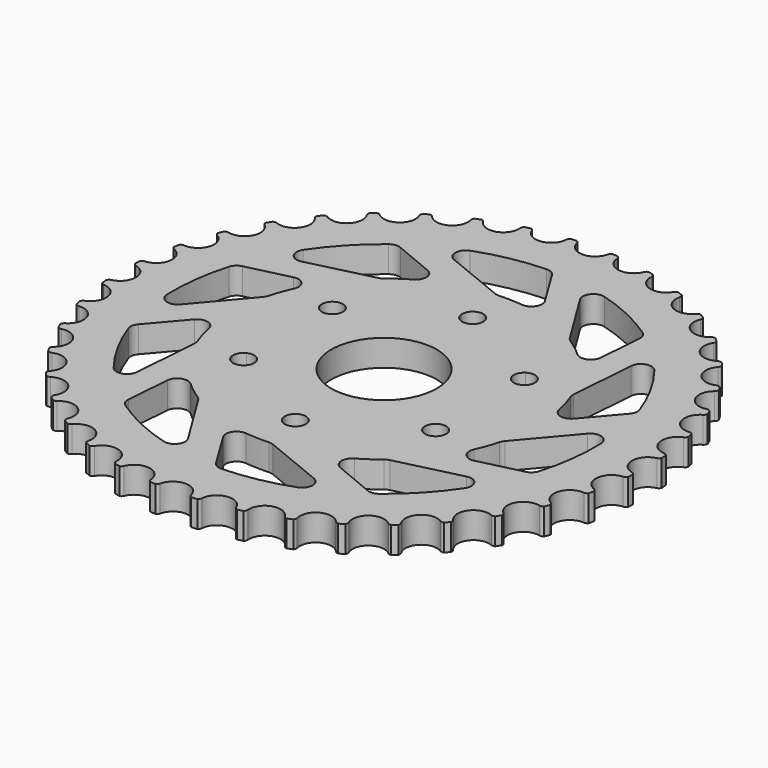
from build123d import *

# Parameters (mm, degrees)
F0_R      = 125
F1_DEPTH  = 12.5
F2_R      = 25
F3_DEPTH  = 12.501
F5_DEPTH  = 12.501
F6_R      = 7.5
F7_DEPTH  = 12.501
F9_DEPTH  = 12.501
F11_DEPTH = 12.501
F12_R     = 5


with BuildPart() as f1:
    # F0 (on Top) → F1 (new body)
    with BuildSketch(Plane.XY):
        Circle(F0_R)
    extrude(amount=F1_DEPTH)

    # F2 (on face) → F3 (cut, through all)
    with BuildSketch(Plane.XY.offset(12.5)):
        Circle(F2_R)
    extrude(amount=-F3_DEPTH, mode=Mode.SUBTRACT)

    # F4 (on face) → F5 (cut, through all)
    with BuildSketch(Plane.XY.offset(12.5)):
        with BuildLine():
            ThreePointArc((-40.4663336987, 26.25), (-41.0778942127, 28.6461633662), (-42.7629732498, 30.4561671725))
            ThreePointArc((-42.7629732498, 30.4561671725), (-45.4663336987, 26.25), (-47.7573010982, 21.8057375894))
            ThreePointArc((-47.7573010982, 21.8057375894), (-42.863915304, 21.9806419102), (-40.4663336987, 26.25))
        make_face()
        with BuildLine():
            ThreePointArc((-47.7573010982, 21.8057375894), (-45.4663336987, 26.25), (-42.7629732498, 30.4561671725))
            ThreePointArc((-42.7629732498, 30.4561671725), (-49.7964607176, 28.75), (-47.7573010982, 21.8057375894))
        make_face()
        with BuildLine():
            ThreePointArc((4.9943278484, 52.2619047619), (4.998581761, 52.3809186038), (5, 52.5))
            ThreePointArc((5, 52.5), (-0.1190813962, 57.498581761), (-4.9943278484, 52.2619047619))
            ThreePointArc((-4.9943278484, 52.2619047619), (0, 52.5), (4.9943278484, 52.2619047619))
        make_face()
        with BuildLine():
            ThreePointArc((4.9943278484, 52.2619047619), (0, 52.5), (-4.9943278484, 52.2619047619))
            ThreePointArc((-4.9943278484, 52.2619047619), (0, 47.5), (4.9943278484, 52.2619047619))
        make_face()
        with BuildLine():
            ThreePointArc((-42.7629732498, -30.4561671725), (-41.0778942127, -28.6461633662), (-40.4663336987, -26.25))
            ThreePointArc((-40.4663336987, -26.25), (-42.863915304, -21.9806419102), (-47.7573010982, -21.8057375894))
            ThreePointArc((-47.7573010982, -21.8057375894), (-45.4663336987, -26.25), (-42.7629732498, -30.4561671725))
        make_face()
        with BuildLine():
            ThreePointArc((-42.7629732498, -30.4561671725), (-45.4663336987, -26.25), (-47.7573010982, -21.8057375894))
            ThreePointArc((-47.7573010982, -21.8057375894), (-49.7964607176, -28.75), (-42.7629732498, -30.4561671725))
        make_face()
        with BuildLine():
            ThreePointArc((-4.9943278484, -52.2619047619), (-0.1190813962, -57.498581761), (5, -52.5))
            ThreePointArc((5, -52.5), (4.998581761, -52.3809186038), (4.9943278484, -52.2619047619))
            ThreePointArc((4.9943278484, -52.2619047619), (0, -52.5), (-4.9943278484, -52.2619047619))
        make_face()
        with BuildLine():
            ThreePointArc((-4.9943278484, -52.2619047619), (0, -52.5), (4.9943278484, -52.2619047619))
            ThreePointArc((4.9943278484, -52.2619047619), (0, -47.5), (-4.9943278484, -52.2619047619))
        make_face()
        with BuildLine():
            ThreePointArc((42.7629732498, -30.4561671725), (47.8624970649, -30.638439486), (50.4663336987, -26.25))
            ThreePointArc((50.4663336987, -26.25), (49.7356917885, -23.6475816053), (47.7573010982, -21.8057375894))
            ThreePointArc((47.7573010982, -21.8057375894), (45.4663336987, -26.25), (42.7629732498, -30.4561671725))
        make_face()
        with BuildLine():
            ThreePointArc((42.7629732498, -30.4561671725), (45.4663336987, -26.25), (47.7573010982, -21.8057375894))
            ThreePointArc((47.7573010982, -21.8057375894), (41.1362066798, -23.75), (42.7629732498, -30.4561671725))
        make_face()
        with BuildLine():
            ThreePointArc((47.7573010982, 21.8057375894), (49.7356917885, 23.6475816053), (50.4663336987, 26.25))
            ThreePointArc((50.4663336987, 26.25), (47.8624970649, 30.638439486), (42.7629732498, 30.4561671725))
            ThreePointArc((42.7629732498, 30.4561671725), (45.4663336987, 26.25), (47.7573010982, 21.8057375894))
        make_face()
        with BuildLine():
            ThreePointArc((47.7573010982, 21.8057375894), (45.4663336987, 26.25), (42.7629732498, 30.4561671725))
            ThreePointArc((42.7629732498, 30.4561671725), (41.1362066798, 23.75), (47.7573010982, 21.8057375894))
        make_face()
    extrude(amount=-F5_DEPTH, mode=Mode.SUBTRACT)

    # F6 (on face) → F7 (cut, through all)
    with BuildSketch(Plane.XY.offset(12.5)):
        with Locations((0, 125)):
            Circle(F6_R)
        with Locations((-19.55430813, 123.4610425744)):
            Circle(F6_R)
        with Locations((-38.6271242969, 118.8820645369)):
            Circle(F6_R)
        with Locations((-56.7488124674, 111.3758155235)):
            Circle(F6_R)
        with Locations((-73.4731565366, 101.1271242969)):
            Circle(F6_R)
        with Locations((-88.3883476483, 88.3883476483)):
            Circle(F6_R)
        with Locations((-101.1271242969, 73.4731565366)):
            Circle(F6_R)
        with Locations((-111.3758155235, 56.7488124674)):
            Circle(F6_R)
        with Locations((-118.8820645369, 38.6271242969)):
            Circle(F6_R)
        with Locations((-123.4610425744, 19.55430813)):
            Circle(F6_R)
        with Locations((-125, 0)):
            Circle(F6_R)
        with Locations((-123.4610425744, -19.55430813)):
            Circle(F6_R)
        with Locations((-118.8820645369, -38.6271242969)):
            Circle(F6_R)
        with Locations((-111.3758155235, -56.7488124674)):
            Circle(F6_R)
        with Locations((-101.1271242969, -73.4731565366)):
            Circle(F6_R)
        with Locations((-88.3883476483, -88.3883476483)):
            Circle(F6_R)
        with Locations((-73.4731565366, -101.1271242969)):
            Circle(F6_R)
        with Locations((-56.7488124674, -111.3758155235)):
            Circle(F6_R)
        with Locations((-38.6271242969, -118.8820645369)):
            Circle(F6_R)
        with Locations((-19.55430813, -123.4610425744)):
            Circle(F6_R)
        with Locations((0, -125)):
            Circle(F6_R)
        with Locations((19.55430813, -123.4610425744)):
            Circle(F6_R)
        with Locations((38.6271242969, -118.8820645369)):
            Circle(F6_R)
        with Locations((56.7488124674, -111.3758155235)):
            Circle(F6_R)
        with Locations((73.4731565366, -101.1271242969)):
            Circle(F6_R)
        with Locations((88.3883476483, -88.3883476483)):
            Circle(F6_R)
        with Locations((101.1271242969, -73.4731565366)):
            Circle(F6_R)
        with Locations((111.3758155235, -56.7488124674)):
            Circle(F6_R)
        with Locations((118.8820645369, -38.6271242969)):
            Circle(F6_R)
        with Locations((123.4610425744, -19.55430813)):
            Circle(F6_R)
        with Locations((125, 0)):
            Circle(F6_R)
        with Locations((123.4610425744, 19.55430813)):
            Circle(F6_R)
        with Locations((118.8820645369, 38.6271242969)):
            Circle(F6_R)
        with Locations((111.3758155235, 56.7488124674)):
            Circle(F6_R)
        with Locations((101.1271242969, 73.4731565366)):
            Circle(F6_R)
        with Locations((88.3883476483, 88.3883476483)):
            Circle(F6_R)
        with Locations((73.4731565366, 101.1271242969)):
            Circle(F6_R)
        with Locations((56.7488124674, 111.3758155235)):
            Circle(F6_R)
        with Locations((38.6271242969, 118.8820645369)):
            Circle(F6_R)
        with Locations((19.55430813, 123.4610425744)):
            Circle(F6_R)
    extrude(amount=-F7_DEPTH, mode=Mode.SUBTRACT)

    # F8 (on face) → F9 (cut, through all)
    with BuildSketch(Plane.XY.offset(12.5)):
        with BuildLine():
            ThreePointArc((7.3014553579, 123.2857218264), (7.7122674879, 124.1332767741), (8.4654994849, 124.6987478645))
            Line((8.4654994849, 124.6987478645), (7.2304001078, 125.2817064524))
            Line((7.2304001078, 125.2817064524), (7.3014553579, 123.2857218264))
        make_face()
        with BuildLine():
            ThreePointArc((11.1458997503, 124.4877957887), (11.8013599593, 123.8114306033), (12.0745736146, 122.9100692728))
            Line((12.0745736146, 122.9100692728), (12.6894302666, 124.9165087938))
            Line((12.6894302666, 124.9165087938), (11.1458997503, 124.4877957887))
        make_face()
        with BuildLine():
            ThreePointArc((-12.0745736146, 122.9100692728), (-11.8014060685, 123.8114545884), (-11.1459067748, 124.4877952358))
            Line((-11.1459067748, 124.4877952358), (-12.4569948439, 124.8703645258))
            Line((-12.4569948439, 124.8703645258), (-12.0745736146, 122.9100692728))
        make_face()
        with BuildLine():
            Line((-7.0080449047, 125.3636435189), (-8.4655065094, 124.6987473117))
            ThreePointArc((-8.4655065094, 124.6987473117), (-7.7123092773, 124.1332458712), (-7.3014553579, 123.2857218264))
            Line((-7.3014553579, 123.2857218264), (-7.0080449047, 125.3636435189))
        make_face()
        with BuildLine():
            ThreePointArc((-31.1532865116, 119.5079628985), (-31.0244898409, 120.440983484), (-30.4828638186, 121.2115399371))
            Line((-30.4828638186, 121.2115399371), (-31.8376572401, 121.3842998035))
            Line((-31.8376572401, 121.3842998035), (-31.1532865116, 119.5079628985))
        make_face()
        with BuildLine():
            Line((-26.5329587521, 122.7239092825), (-27.8684639035, 121.8392018245))
            ThreePointArc((-27.8684639035, 121.8392018245), (-27.0360758639, 121.3984886512), (-26.4976982674, 120.6256707469))
            Line((-26.4976982674, 120.6256707469), (-26.5329587521, 122.7239092825))
        make_face()
        with BuildLine():
            ThreePointArc((-49.4649021028, 113.1631738534), (-49.483647709, 114.1048556456), (-49.0692315884, 114.9506542471))
            Line((-49.0692315884, 114.9506542471), (-50.434370852, 114.9093507688))
            Line((-50.434370852, 114.9093507688), (-49.4649021028, 113.1631738534))
        make_face()
        with BuildLine():
            Line((-45.4045430972, 117.0623051023), (-46.5852072261, 115.9795708272))
            ThreePointArc((-46.5852072261, 115.9795708272), (-45.694124535, 115.6744977421), (-45.0414799047, 114.9954153199))
            Line((-45.0414799047, 114.9954153199), (-45.4045430972, 117.0623051023))
        make_face()
        with BuildLine():
            ThreePointArc((-66.5585276396, 104.031931901), (-66.7243539437, 104.9590875688), (-66.447352025, 105.8593019502))
            Line((-66.447352025, 105.8593019502), (-67.7892228714, 105.6049521558))
            Line((-67.7892228714, 105.6049521558), (-66.5585276396, 104.031931901))
        make_face()
        with BuildLine():
            Line((-63.1581169022, 108.5182384629), (-64.1548681394, 107.2641378821))
            ThreePointArc((-64.1548681394, 107.2641378821), (-63.22703221, 107.102216797), (-62.4761908227, 106.5335911199))
            Line((-62.4761908227, 106.5335911199), (-63.1581169022, 108.5182384629))
        make_face()
        with BuildLine():
            ThreePointArc((-82.0132613308, 92.3390785231), (-82.3220851389, 93.2288784169), (-82.1893181286, 94.1613423124))
            Line((-82.1893181286, 94.1613423124), (-83.4748792442, 93.700209138))
            Line((-83.4748792442, 93.700209138), (-82.0132613308, 92.3390785231))
        make_face()
        with BuildLine():
            Line((-79.3565282593, 97.3020926412), (-80.1448232813, 95.907505873))
            ThreePointArc((-80.1448232813, 95.907505873), (-79.2030805135, 95.8927238224), (-78.372530576, 95.4485563417))
            Line((-78.372530576, 95.4485563417), (-79.3565282593, 97.3020926412))
        make_face()
        with BuildLine():
            ThreePointArc((-95.4485563417, 78.372530576), (-95.8927733866, 79.2030648694), (-95.9075104492, 80.1448179233))
            Line((-95.9075104492, 80.1448179233), (-97.1051070527, 79.4882559981))
            Line((-97.1051070527, 79.4882559981), (-95.4485563417, 78.372530576))
        make_face()
        with BuildLine():
            Line((-93.6009185215, 83.6900463715), (-94.1613468886, 82.1893127706))
            ThreePointArc((-94.1613468886, 82.1893127706), (-93.2288861148, 82.3220337376), (-92.3390785231, 82.0132613308))
            Line((-92.3390785231, 82.0132613308), (-93.6009185215, 83.6900463715))
        make_face()
        with BuildLine():
            ThreePointArc((-106.5335911199, 62.4761908227), (-107.1022633037, 63.227009005), (-107.2641415637, 64.1548621315))
            Line((-107.2641415637, 64.1548621315), (-108.3442848523, 63.3190381891))
            Line((-108.3442848523, 63.3190381891), (-106.5335911199, 62.4761908227))
        make_face()
        with BuildLine():
            Line((-105.540543526, 68.0172734088), (-105.8593056319, 66.4473460171))
            ThreePointArc((-105.8593056319, 66.4473460171), (-104.9590871311, 66.7243019711), (-104.031931901, 66.5585276396))
            Line((-104.031931901, 66.5585276396), (-105.540543526, 68.0172734088))
        make_face()
        with BuildLine():
            ThreePointArc((-114.9954153199, 45.0414799047), (-115.6745400462, 45.6940943404), (-115.9795735237, 46.5852007162))
            Line((-115.9795735237, 46.5852007162), (-116.9156667847, 45.590695516))
            Line((-116.9156667847, 45.590695516), (-114.9954153199, 45.0414799047))
        make_face()
        with BuildLine():
            Line((-114.8814100799, 50.6696894384), (-114.9506569436, 49.0692250785))
            ThreePointArc((-114.9506569436, 49.0692250785), (-114.1048470829, 49.4835964447), (-113.1631738534, 49.4649021028))
            Line((-113.1631738534, 49.4649021028), (-114.8814100799, 50.6696894384))
        make_face()
        with BuildLine():
            ThreePointArc((-120.6256707469, 26.4976982674), (-121.3985257109, 27.0360394232), (-121.8392034694, 27.8684570519))
            Line((-121.8392034694, 27.8684570519), (-122.60819698, 26.7397586125))
            Line((-122.60819698, 26.7397586125), (-120.6256707469, 26.4976982674))
        make_face()
        with BuildLine():
            Line((-121.3935150481, 32.074449551), (-121.211541582, 30.4828569671))
            ThreePointArc((-121.211541582, 30.4828569671), (-120.4409670073, 31.0244405472), (-119.5079628985, 31.1532865116))
            Line((-119.5079628985, 31.1532865116), (-121.3935150481, 32.074449551))
        make_face()
        with BuildLine():
            ThreePointArc((-123.2857218264, 7.3014553579), (-124.1332767741, 7.7122674879), (-124.6987478645, 8.4654994849))
            Line((-124.6987478645, 8.4654994849), (-125.2817064524, 7.2304001078))
            Line((-125.2817064524, 7.2304001078), (-123.2857218264, 7.3014553579))
        make_face()
        with BuildLine():
            Line((-124.9165087938, 12.6894302666), (-124.4877957887, 11.1458997503))
            ThreePointArc((-124.4877957887, 11.1458997503), (-123.8114306033, 11.8013599593), (-122.9100692728, 12.0745736146))
            Line((-122.9100692728, 12.0745736146), (-124.9165087938, 12.6894302666))
        make_face()
        with BuildLine():
            ThreePointArc((-122.9100692728, -12.0745736146), (-123.8114545884, -11.8014060685), (-124.4877952358, -11.1459067748))
            Line((-124.4877952358, -11.1459067748), (-124.8703645258, -12.4569948439))
            Line((-124.8703645258, -12.4569948439), (-122.9100692728, -12.0745736146))
        make_face()
        with BuildLine():
            Line((-125.3636435189, -7.0080449047), (-124.6987473117, -8.4655065094))
            ThreePointArc((-124.6987473117, -8.4655065094), (-124.1332458712, -7.7123092773), (-123.2857218264, -7.3014553579))
            Line((-123.2857218264, -7.3014553579), (-125.3636435189, -7.0080449047))
        make_face()
        with BuildLine():
            ThreePointArc((-119.5079628985, -31.1532865116), (-120.440983484, -31.0244898409), (-121.2115399371, -30.4828638186))
            Line((-121.2115399371, -30.4828638186), (-121.3842998035, -31.8376572401))
            Line((-121.3842998035, -31.8376572401), (-119.5079628985, -31.1532865116))
        make_face()
        with BuildLine():
            Line((-122.7239092825, -26.5329587521), (-121.8392018245, -27.8684639035))
            ThreePointArc((-121.8392018245, -27.8684639035), (-121.3984886512, -27.0360758639), (-120.6256707469, -26.4976982674))
            Line((-120.6256707469, -26.4976982674), (-122.7239092825, -26.5329587521))
        make_face()
        with BuildLine():
            ThreePointArc((-113.1631738534, -49.4649021028), (-114.1048556456, -49.483647709), (-114.9506542471, -49.0692315884))
            Line((-114.9506542471, -49.0692315884), (-114.9093507688, -50.434370852))
            Line((-114.9093507688, -50.434370852), (-113.1631738534, -49.4649021028))
        make_face()
        with BuildLine():
            Line((-117.0623051023, -45.4045430972), (-115.9795708272, -46.5852072261))
            ThreePointArc((-115.9795708272, -46.5852072261), (-115.6744977421, -45.694124535), (-114.9954153199, -45.0414799047))
            Line((-114.9954153199, -45.0414799047), (-117.0623051023, -45.4045430972))
        make_face()
        with BuildLine():
            ThreePointArc((-104.031931901, -66.5585276396), (-104.9590875688, -66.7243539437), (-105.8593019502, -66.447352025))
            Line((-105.8593019502, -66.447352025), (-105.6049521558, -67.7892228714))
            Line((-105.6049521558, -67.7892228714), (-104.031931901, -66.5585276396))
        make_face()
        with BuildLine():
            Line((-108.5182384629, -63.1581169022), (-107.2641378821, -64.1548681394))
            ThreePointArc((-107.2641378821, -64.1548681394), (-107.102216797, -63.22703221), (-106.5335911199, -62.4761908227))
            Line((-106.5335911199, -62.4761908227), (-108.5182384629, -63.1581169022))
        make_face()
        with BuildLine():
            ThreePointArc((-92.3390785231, -82.0132613308), (-93.2288784169, -82.3220851389), (-94.1613423124, -82.1893181286))
            Line((-94.1613423124, -82.1893181286), (-93.700209138, -83.4748792442))
            Line((-93.700209138, -83.4748792442), (-92.3390785231, -82.0132613308))
        make_face()
        with BuildLine():
            Line((-97.3020926412, -79.3565282593), (-95.907505873, -80.1448232813))
            ThreePointArc((-95.907505873, -80.1448232813), (-95.8927238224, -79.2030805135), (-95.4485563417, -78.372530576))
            Line((-95.4485563417, -78.372530576), (-97.3020926412, -79.3565282593))
        make_face()
        with BuildLine():
            ThreePointArc((-78.372530576, -95.4485563417), (-79.2030648694, -95.8927733866), (-80.1448179233, -95.9075104492))
            Line((-80.1448179233, -95.9075104492), (-79.4882559981, -97.1051070527))
            Line((-79.4882559981, -97.1051070527), (-78.372530576, -95.4485563417))
        make_face()
        with BuildLine():
            Line((-83.6900463715, -93.6009185215), (-82.1893127706, -94.1613468886))
            ThreePointArc((-82.1893127706, -94.1613468886), (-82.3220337376, -93.2288861148), (-82.0132613308, -92.3390785231))
            Line((-82.0132613308, -92.3390785231), (-83.6900463715, -93.6009185215))
        make_face()
        with BuildLine():
            ThreePointArc((-62.4761908227, -106.5335911199), (-63.227009005, -107.1022633037), (-64.1548621315, -107.2641415637))
            Line((-64.1548621315, -107.2641415637), (-63.3190381891, -108.3442848523))
            Line((-63.3190381891, -108.3442848523), (-62.4761908227, -106.5335911199))
        make_face()
        with BuildLine():
            Line((-68.0172734088, -105.540543526), (-66.4473460171, -105.8593056319))
            ThreePointArc((-66.4473460171, -105.8593056319), (-66.7243019711, -104.9590871311), (-66.5585276396, -104.031931901))
            Line((-66.5585276396, -104.031931901), (-68.0172734088, -105.540543526))
        make_face()
        with BuildLine():
            ThreePointArc((-45.0414799047, -114.9954153199), (-45.6940943404, -115.6745400462), (-46.5852007162, -115.9795735237))
            Line((-46.5852007162, -115.9795735237), (-45.590695516, -116.9156667847))
            Line((-45.590695516, -116.9156667847), (-45.0414799047, -114.9954153199))
        make_face()
        with BuildLine():
            Line((-50.6696894384, -114.8814100799), (-49.0692250785, -114.9506569436))
            ThreePointArc((-49.0692250785, -114.9506569436), (-49.4835964447, -114.1048470829), (-49.4649021028, -113.1631738534))
            Line((-49.4649021028, -113.1631738534), (-50.6696894384, -114.8814100799))
        make_face()
        with BuildLine():
            ThreePointArc((-26.4976982674, -120.6256707469), (-27.0360394232, -121.3985257109), (-27.8684570519, -121.8392034694))
            Line((-27.8684570519, -121.8392034694), (-26.7397586125, -122.60819698))
            Line((-26.7397586125, -122.60819698), (-26.4976982674, -120.6256707469))
        make_face()
        with BuildLine():
            Line((-32.074449551, -121.3935150481), (-30.4828569671, -121.211541582))
            ThreePointArc((-30.4828569671, -121.211541582), (-31.0244405472, -120.4409670073), (-31.1532865116, -119.5079628985))
            Line((-31.1532865116, -119.5079628985), (-32.074449551, -121.3935150481))
        make_face()
        with BuildLine():
            ThreePointArc((-7.3014553579, -123.2857218264), (-7.7122674879, -124.1332767741), (-8.4654994849, -124.6987478645))
            Line((-8.4654994849, -124.6987478645), (-7.2304001078, -125.2817064524))
            Line((-7.2304001078, -125.2817064524), (-7.3014553579, -123.2857218264))
        make_face()
        with BuildLine():
            Line((-12.6894302666, -124.9165087938), (-11.1458997503, -124.4877957887))
            ThreePointArc((-11.1458997503, -124.4877957887), (-11.8013599593, -123.8114306033), (-12.0745736146, -122.9100692728))
            Line((-12.0745736146, -122.9100692728), (-12.6894302666, -124.9165087938))
        make_face()
        with BuildLine():
            ThreePointArc((12.0745736146, -122.9100692728), (11.8014060685, -123.8114545884), (11.1459067748, -124.4877952358))
            Line((11.1459067748, -124.4877952358), (12.4569948439, -124.8703645258))
            Line((12.4569948439, -124.8703645258), (12.0745736146, -122.9100692728))
        make_face()
        with BuildLine():
            Line((7.0080449047, -125.3636435189), (8.4655065094, -124.6987473117))
            ThreePointArc((8.4655065094, -124.6987473117), (7.7123092773, -124.1332458712), (7.3014553579, -123.2857218264))
            Line((7.3014553579, -123.2857218264), (7.0080449047, -125.3636435189))
        make_face()
        with BuildLine():
            ThreePointArc((31.1532865116, -119.5079628985), (31.0244898409, -120.440983484), (30.4828638186, -121.2115399371))
            Line((30.4828638186, -121.2115399371), (31.8376572401, -121.3842998035))
            Line((31.8376572401, -121.3842998035), (31.1532865116, -119.5079628985))
        make_face()
        with BuildLine():
            Line((26.5329587521, -122.7239092825), (27.8684639035, -121.8392018245))
            ThreePointArc((27.8684639035, -121.8392018245), (27.0360758639, -121.3984886512), (26.4976982674, -120.6256707469))
            Line((26.4976982674, -120.6256707469), (26.5329587521, -122.7239092825))
        make_face()
        with BuildLine():
            ThreePointArc((49.4649021028, -113.1631738534), (49.483647709, -114.1048556456), (49.0692315884, -114.9506542471))
            Line((49.0692315884, -114.9506542471), (50.434370852, -114.9093507688))
            Line((50.434370852, -114.9093507688), (49.4649021028, -113.1631738534))
        make_face()
        with BuildLine():
            Line((45.4045430972, -117.0623051023), (46.5852072261, -115.9795708272))
            ThreePointArc((46.5852072261, -115.9795708272), (45.694124535, -115.6744977421), (45.0414799047, -114.9954153199))
            Line((45.0414799047, -114.9954153199), (45.4045430972, -117.0623051023))
        make_face()
        with BuildLine():
            ThreePointArc((66.5585276396, -104.031931901), (66.7243539437, -104.9590875688), (66.447352025, -105.8593019502))
            Line((66.447352025, -105.8593019502), (67.7892228714, -105.6049521558))
            Line((67.7892228714, -105.6049521558), (66.5585276396, -104.031931901))
        make_face()
        with BuildLine():
            Line((63.1581169022, -108.5182384629), (64.1548681394, -107.2641378821))
            ThreePointArc((64.1548681394, -107.2641378821), (63.22703221, -107.102216797), (62.4761908227, -106.5335911199))
            Line((62.4761908227, -106.5335911199), (63.1581169022, -108.5182384629))
        make_face()
        with BuildLine():
            ThreePointArc((82.0132613308, -92.3390785231), (82.3220851389, -93.2288784169), (82.1893181286, -94.1613423124))
            Line((82.1893181286, -94.1613423124), (83.4748792442, -93.700209138))
            Line((83.4748792442, -93.700209138), (82.0132613308, -92.3390785231))
        make_face()
        with BuildLine():
            Line((79.3565282593, -97.3020926412), (80.1448232813, -95.907505873))
            ThreePointArc((80.1448232813, -95.907505873), (79.2030805135, -95.8927238224), (78.372530576, -95.4485563417))
            Line((78.372530576, -95.4485563417), (79.3565282593, -97.3020926412))
        make_face()
        with BuildLine():
            ThreePointArc((95.4485563417, -78.372530576), (95.8927733866, -79.2030648694), (95.9075104492, -80.1448179233))
            Line((95.9075104492, -80.1448179233), (97.1051070527, -79.4882559981))
            Line((97.1051070527, -79.4882559981), (95.4485563417, -78.372530576))
        make_face()
        with BuildLine():
            Line((93.6009185215, -83.6900463715), (94.1613468886, -82.1893127706))
            ThreePointArc((94.1613468886, -82.1893127706), (93.2288861148, -82.3220337376), (92.3390785231, -82.0132613308))
            Line((92.3390785231, -82.0132613308), (93.6009185215, -83.6900463715))
        make_face()
        with BuildLine():
            ThreePointArc((106.5335911199, -62.4761908227), (107.1022633037, -63.227009005), (107.2641415637, -64.1548621315))
            Line((107.2641415637, -64.1548621315), (108.3442848523, -63.3190381891))
            Line((108.3442848523, -63.3190381891), (106.5335911199, -62.4761908227))
        make_face()
        with BuildLine():
            Line((105.540543526, -68.0172734088), (105.8593056319, -66.4473460171))
            ThreePointArc((105.8593056319, -66.4473460171), (104.9590871311, -66.7243019711), (104.031931901, -66.5585276396))
            Line((104.031931901, -66.5585276396), (105.540543526, -68.0172734088))
        make_face()
        with BuildLine():
            ThreePointArc((114.9954153199, -45.0414799047), (115.6745400462, -45.6940943404), (115.9795735237, -46.5852007162))
            Line((115.9795735237, -46.5852007162), (116.9156667847, -45.590695516))
            Line((116.9156667847, -45.590695516), (114.9954153199, -45.0414799047))
        make_face()
        with BuildLine():
            Line((114.8814100799, -50.6696894384), (114.9506569436, -49.0692250785))
            ThreePointArc((114.9506569436, -49.0692250785), (114.1048470829, -49.4835964447), (113.1631738534, -49.4649021028))
            Line((113.1631738534, -49.4649021028), (114.8814100799, -50.6696894384))
        make_face()
        with BuildLine():
            ThreePointArc((120.6256707469, -26.4976982674), (121.3985257109, -27.0360394232), (121.8392034694, -27.8684570519))
            Line((121.8392034694, -27.8684570519), (122.60819698, -26.7397586125))
            Line((122.60819698, -26.7397586125), (120.6256707469, -26.4976982674))
        make_face()
        with BuildLine():
            Line((121.3935150481, -32.074449551), (121.211541582, -30.4828569671))
            ThreePointArc((121.211541582, -30.4828569671), (120.4409670073, -31.0244405472), (119.5079628985, -31.1532865116))
            Line((119.5079628985, -31.1532865116), (121.3935150481, -32.074449551))
        make_face()
        with BuildLine():
            ThreePointArc((123.2857218264, -7.3014553579), (124.1332767741, -7.7122674879), (124.6987478645, -8.4654994849))
            Line((124.6987478645, -8.4654994849), (125.2817064524, -7.2304001078))
            Line((125.2817064524, -7.2304001078), (123.2857218264, -7.3014553579))
        make_face()
        with BuildLine():
            Line((124.9165087938, -12.6894302666), (124.4877957887, -11.1458997503))
            ThreePointArc((124.4877957887, -11.1458997503), (123.8114306033, -11.8013599593), (122.9100692728, -12.0745736146))
            Line((122.9100692728, -12.0745736146), (124.9165087938, -12.6894302666))
        make_face()
        with BuildLine():
            ThreePointArc((122.9100692728, 12.0745736146), (123.8114545884, 11.8014060685), (124.4877952358, 11.1459067748))
            Line((124.4877952358, 11.1459067748), (124.8703645258, 12.4569948439))
            Line((124.8703645258, 12.4569948439), (122.9100692728, 12.0745736146))
        make_face()
        with BuildLine():
            Line((125.3636435189, 7.0080449047), (124.6987473117, 8.4655065094))
            ThreePointArc((124.6987473117, 8.4655065094), (124.1332458712, 7.7123092773), (123.2857218264, 7.3014553579))
            Line((123.2857218264, 7.3014553579), (125.3636435189, 7.0080449047))
        make_face()
        with BuildLine():
            ThreePointArc((119.5079628985, 31.1532865116), (120.440983484, 31.0244898409), (121.2115399371, 30.4828638186))
            Line((121.2115399371, 30.4828638186), (121.3842998035, 31.8376572401))
            Line((121.3842998035, 31.8376572401), (119.5079628985, 31.1532865116))
        make_face()
        with BuildLine():
            Line((122.7239092825, 26.5329587521), (121.8392018245, 27.8684639035))
            ThreePointArc((121.8392018245, 27.8684639035), (121.3984886512, 27.0360758639), (120.6256707469, 26.4976982674))
            Line((120.6256707469, 26.4976982674), (122.7239092825, 26.5329587521))
        make_face()
        with BuildLine():
            ThreePointArc((113.1631738534, 49.4649021028), (114.1048556456, 49.483647709), (114.9506542471, 49.0692315884))
            Line((114.9506542471, 49.0692315884), (114.9093507688, 50.434370852))
            Line((114.9093507688, 50.434370852), (113.1631738534, 49.4649021028))
        make_face()
        with BuildLine():
            Line((117.0623051023, 45.4045430972), (115.9795708272, 46.5852072261))
            ThreePointArc((115.9795708272, 46.5852072261), (115.6744977421, 45.694124535), (114.9954153199, 45.0414799047))
            Line((114.9954153199, 45.0414799047), (117.0623051023, 45.4045430972))
        make_face()
        with BuildLine():
            ThreePointArc((104.031931901, 66.5585276396), (104.9590875688, 66.7243539437), (105.8593019502, 66.447352025))
            Line((105.8593019502, 66.447352025), (105.6049521558, 67.7892228714))
            Line((105.6049521558, 67.7892228714), (104.031931901, 66.5585276396))
        make_face()
        with BuildLine():
            Line((108.5182384629, 63.1581169022), (107.2641378821, 64.1548681394))
            ThreePointArc((107.2641378821, 64.1548681394), (107.102216797, 63.22703221), (106.5335911199, 62.4761908227))
            Line((106.5335911199, 62.4761908227), (108.5182384629, 63.1581169022))
        make_face()
        with BuildLine():
            ThreePointArc((92.3390785231, 82.0132613308), (93.2288784169, 82.3220851389), (94.1613423124, 82.1893181286))
            Line((94.1613423124, 82.1893181286), (93.700209138, 83.4748792442))
            Line((93.700209138, 83.4748792442), (92.3390785231, 82.0132613308))
        make_face()
        with BuildLine():
            Line((97.3020926412, 79.3565282593), (95.907505873, 80.1448232813))
            ThreePointArc((95.907505873, 80.1448232813), (95.8927238224, 79.2030805135), (95.4485563417, 78.372530576))
            Line((95.4485563417, 78.372530576), (97.3020926412, 79.3565282593))
        make_face()
        with BuildLine():
            ThreePointArc((78.372530576, 95.4485563417), (79.2030648694, 95.8927733866), (80.1448179233, 95.9075104492))
            Line((80.1448179233, 95.9075104492), (79.4882559981, 97.1051070527))
            Line((79.4882559981, 97.1051070527), (78.372530576, 95.4485563417))
        make_face()
        with BuildLine():
            Line((83.6900463715, 93.6009185215), (82.1893127706, 94.1613468886))
            ThreePointArc((82.1893127706, 94.1613468886), (82.3220337376, 93.2288861148), (82.0132613308, 92.3390785231))
            Line((82.0132613308, 92.3390785231), (83.6900463715, 93.6009185215))
        make_face()
        with BuildLine():
            ThreePointArc((62.4761908227, 106.5335911199), (63.227009005, 107.1022633037), (64.1548621315, 107.2641415637))
            Line((64.1548621315, 107.2641415637), (63.3190381891, 108.3442848523))
            Line((63.3190381891, 108.3442848523), (62.4761908227, 106.5335911199))
        make_face()
        with BuildLine():
            Line((68.0172734088, 105.540543526), (66.4473460171, 105.8593056319))
            ThreePointArc((66.4473460171, 105.8593056319), (66.7243019711, 104.9590871311), (66.5585276396, 104.031931901))
            Line((66.5585276396, 104.031931901), (68.0172734088, 105.540543526))
        make_face()
        with BuildLine():
            ThreePointArc((45.0414799047, 114.9954153199), (45.6940943404, 115.6745400462), (46.5852007162, 115.9795735237))
            Line((46.5852007162, 115.9795735237), (45.590695516, 116.9156667847))
            Line((45.590695516, 116.9156667847), (45.0414799047, 114.9954153199))
        make_face()
        with BuildLine():
            Line((50.6696894384, 114.8814100799), (49.0692250785, 114.9506569436))
            ThreePointArc((49.0692250785, 114.9506569436), (49.4835964447, 114.1048470829), (49.4649021028, 113.1631738534))
            Line((49.4649021028, 113.1631738534), (50.6696894384, 114.8814100799))
        make_face()
        with BuildLine():
            ThreePointArc((26.4976982674, 120.6256707469), (27.0360394232, 121.3985257109), (27.8684570519, 121.8392034694))
            Line((27.8684570519, 121.8392034694), (26.7397586125, 122.60819698))
            Line((26.7397586125, 122.60819698), (26.4976982674, 120.6256707469))
        make_face()
        with BuildLine():
            Line((32.074449551, 121.3935150481), (30.4828569671, 121.211541582))
            ThreePointArc((30.4828569671, 121.211541582), (31.0244405472, 120.4409670073), (31.1532865116, 119.5079628985))
            Line((31.1532865116, 119.5079628985), (32.074449551, 121.3935150481))
        make_face()
    extrude(amount=-F9_DEPTH, mode=Mode.SUBTRACT)

    # F10 (on face) → F11 (cut, through all)
    with BuildSketch(Plane.XY.offset(12.5)):
        with BuildLine():
            ThreePointArc((-67.416040741, -26.6707227276), (-70.7847334859, -15.6771013053), (-72.373013563, -4.2891616679))
            Line((-72.373013563, -4.2891616679), (-95.1056516295, -30.9016994375))
            ThreePointArc((-95.1056516295, -30.9016994375), (-85.2521819126, -52.2691637502), (-70.6786450358, -70.7426966966))
            Line((-70.6786450358, -70.7426966966), (-67.416040741, -26.6707227276))
        make_face()
        with BuildLine():
            Line((18.2852559713, 70.15625), (0, 100))
            ThreePointArc((0, 100), (-23.3665557674, 97.2317030169), (-45.4394002181, 89.0800814314))
            Line((-45.4394002181, 89.0800814314), (-4.5326623619, 72.3581714246))
            ThreePointArc((-4.5326623619, 72.3581714246), (6.9638762364, 72.1647727618), (18.2852559713, 70.15625))
        make_face()
        with BuildLine():
            ThreePointArc((58.7785252292, 80.9016994375), (38.2474203728, 92.3966170097), (15.5987111477, 98.7759090595))
            Line((15.5987111477, 98.7759090595), (38.8640651657, 61.2032224544))
            ThreePointArc((38.8640651657, 61.2032224544), (48.0512833864, 54.2892638089), (56.0298919335, 46.0097947173))
            Line((56.0298919335, 46.0097947173), (58.7785252292, 80.9016994375))
        make_face()
        with BuildLine():
            Line((-26.4437262788, 67.505402306), (-58.7785252292, 80.9016994375))
            ThreePointArc((-58.7785252292, 80.9016994375), (-76.0553018045, 64.9275832557), (-89.121205129, 45.358690417))
            Line((-89.121205129, 45.358690417), (-46.1980669268, 55.8747582744))
            ThreePointArc((-46.1980669268, 55.8747582744), (-36.7834949424, 62.4757913101), (-26.4437262788, 67.505402306))
        make_face()
        with BuildLine():
            Line((-61.0721038797, 39.0697853553), (-95.1056516295, 30.9016994375))
            ThreePointArc((-95.1056516295, 30.9016994375), (-99.6935075768, 7.8233334983), (-98.761738799, -15.6881786514))
            Line((-98.761738799, -15.6881786514), (-70.2173801402, 18.0490865766))
            ThreePointArc((-70.2173801402, 18.0490865766), (-66.4808212783, 28.923181052), (-61.0721038797, 39.0697853553))
        make_face()
        with BuildLine():
            Line((-56.0298919335, -46.0097947173), (-58.7785252292, -80.9016994375))
            ThreePointArc((-58.7785252292, -80.9016994375), (-38.2474203728, -92.3966170097), (-15.5987111477, -98.7759090595))
            Line((-15.5987111477, -98.7759090595), (-38.8640651657, -61.2032224544))
            ThreePointArc((-38.8640651657, -61.2032224544), (-48.0512833864, -54.2892638089), (-56.0298919335, -46.0097947173))
        make_face()
        with BuildLine():
            Line((-18.2852559713, -70.15625), (0, -100))
            ThreePointArc((0, -100), (23.3665557674, -97.2317030169), (45.4394002181, -89.0800814314))
            Line((45.4394002181, -89.0800814314), (4.5326623619, -72.3581714246))
            ThreePointArc((4.5326623619, -72.3581714246), (-6.9638762364, -72.1647727618), (-18.2852559713, -70.15625))
        make_face()
        with BuildLine():
            Line((26.4437262788, -67.505402306), (58.7785252292, -80.9016994375))
            ThreePointArc((58.7785252292, -80.9016994375), (76.0553018045, -64.9275832557), (89.121205129, -45.358690417))
            Line((89.121205129, -45.358690417), (46.1980669268, -55.8747582744))
            ThreePointArc((46.1980669268, -55.8747582744), (36.7834949424, -62.4757913101), (26.4437262788, -67.505402306))
        make_face()
        with BuildLine():
            Line((61.0721038797, -39.0697853553), (95.1056516295, -30.9016994375))
            ThreePointArc((95.1056516295, -30.9016994375), (99.6935075768, -7.8233334983), (98.761738799, 15.6881786514))
            Line((98.761738799, 15.6881786514), (70.2173801402, -18.0490865766))
            ThreePointArc((70.2173801402, -18.0490865766), (66.4808212783, -28.923181052), (61.0721038797, -39.0697853553))
        make_face()
        with BuildLine():
            Line((72.373013563, 4.2891616679), (95.1056516295, 30.9016994375))
            ThreePointArc((95.1056516295, 30.9016994375), (85.2521819126, 52.2691637502), (70.6786450358, 70.7426966966))
            Line((70.6786450358, 70.7426966966), (67.416040741, 26.6707227276))
            ThreePointArc((67.416040741, 26.6707227276), (70.7847334859, 15.6771013053), (72.373013563, 4.2891616679))
        make_face()
    extrude(amount=-F11_DEPTH, mode=Mode.SUBTRACT)

    # F12
    f12_edges = [f1.edges().sort_by_distance(p)[0] for p in [
        (-15.598711, -98.775909, 6.25),
        (-58.778525, -80.901699, 6.25),
        (-38.864065, -61.203222, 6.25),
        (-56.029892, -46.009795, 6.25),
        (-70.678645, -70.742697, 6.25),
        (-95.105652, -30.901699, 6.25),
        (-72.373014, -4.289162, 6.25),
        (-67.416041, -26.670723, 6.25),
        (-98.761739, -15.688179, 6.25),
        (-70.21738, 18.049087, 6.25),
        (-61.072104, 39.069785, 6.25),
        (-95.105652, 30.901699, 6.25),
        (-89.121205, 45.35869, 6.25),
        (-46.198067, 55.874758, 6.25),
        (-26.443726, 67.505402, 6.25),
        (-58.778525, 80.901699, 6.25),
        (-45.4394, 89.080081, 6.25),
        (-4.532662, 72.358171, 6.25),
        (18.285256, 70.15625, 6.25),
        (0, 100, 6.25),
        (15.598711, 98.775909, 6.25),
        (38.864065, 61.203222, 6.25),
        (56.029892, 46.009795, 6.25),
        (58.778525, 80.901699, 6.25),
        (70.678645, 70.742697, 6.25),
        (67.416041, 26.670723, 6.25),
        (72.373014, 4.289162, 6.25),
        (95.105652, 30.901699, 6.25),
        (70.21738, -18.049087, 6.25),
        (98.761739, 15.688179, 6.25),
        (95.105652, -30.901699, 6.25),
        (61.072104, -39.069785, 6.25),
        (89.121205, -45.35869, 6.25),
        (46.198067, -55.874758, 6.25),
        (26.443726, -67.505402, 6.25),
        (58.778525, -80.901699, 6.25),
        (45.4394, -89.080081, 6.25),
        (4.532662, -72.358171, 6.25),
        (-18.285256, -70.15625, 6.25),
        (0, -100, 6.25),
    ]]
    fillet(f12_edges, radius=F12_R)


solid = f1.part
